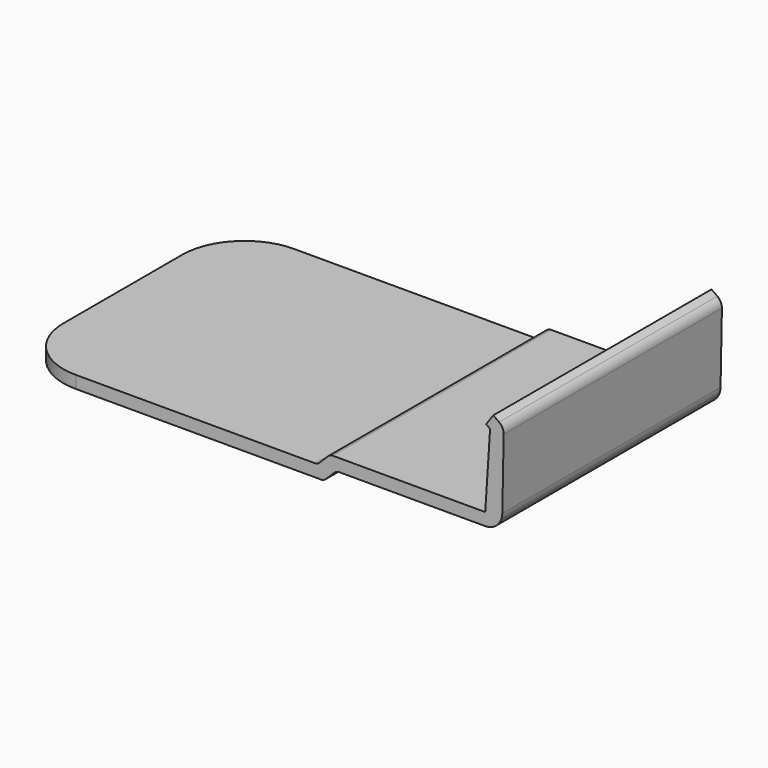
from build123d import *

# Parameters (mm, degrees)
F1_DEPTH = 22
F3_DEPTH = 2


with BuildPart() as f1:
    # F0 (on Front) → F1 (new body, symmetric)
    with BuildSketch(Plane.XZ):
        with BuildLine():
            Line((-40, 0), (-0.4058661959, 0))
            ThreePointArc((-0.4058661959, 0), (-0.0297944203, 0.073409465), (0.2910628996, 0.2828599608))
            Line((0.2910628996, 0.2828599608), (1.7669371004, 1.7171400392))
            ThreePointArc((1.7669371004, 1.7171400392), (2.0877944203, 1.926590535), (2.4638661959, 2))
            Line((2.4638661959, 2), (26.037, 2))
            ThreePointArc((26.037, 2), (27.9687843496, 2.7891547709), (28.7954749436, 4.705176349))
            Line((28.7954749436, 4.705176349), (29.016465998, 16.0310205539))
            ThreePointArc((29.016465998, 16.0310205539), (28.8276722638, 16.8546583092), (28.2736767263, 17.4927109486))
            Line((28.2736767263, 17.4927109486), (27.3333525812, 18.1512658075))
            Line((27.3333525812, 18.1512658075), (26.1860444646, 16.5130704329))
            Line((26.1860444646, 16.5130704329), (26.8254471929, 16.0652655182))
            Line((26.8254471929, 16.0652655182), (26.037, 4))
            Line((26.037, 4), (1.4428661959, 4))
            ThreePointArc((1.4428661959, 4), (1.0667944203, 3.926590535), (0.7459371004, 3.7171400392))
            Line((0.7459371004, 3.7171400392), (-0.7299371004, 2.2828599608))
            ThreePointArc((-0.7299371004, 2.2828599608), (-1.0507944203, 2.073409465), (-1.4268661959, 2))
            Line((-1.4268661959, 2), (-40, 2))
            Line((-40, 2), (-40, 0))
        make_face()
    extrude(amount=F1_DEPTH, both=True)

    # F2 (on face) → F3 (join)
    with BuildSketch(Plane.XY.offset(2)):
        with BuildLine():
            Line((-50, 12), (-50, -12))
            ThreePointArc((-50, -12), (-47.0710678119, -19.0710678119), (-40, -22))
            Line((-40, -22), (-40, 22))
            ThreePointArc((-40, 22), (-47.0710678119, 19.0710678119), (-50, 12))
        make_face()
    extrude(amount=-F3_DEPTH)


solid = f1.part
